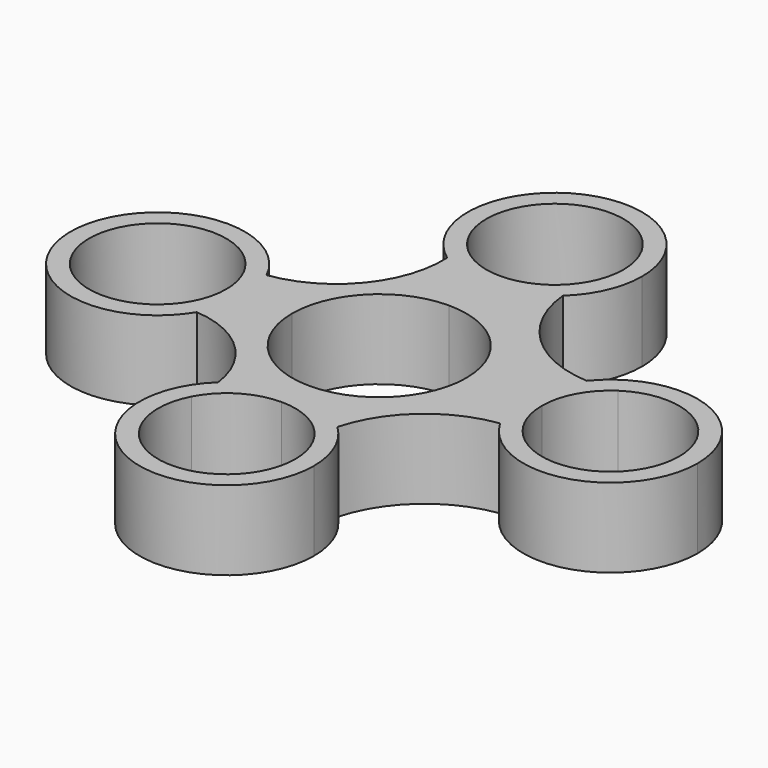
from build123d import *

# Parameters (mm, degrees)
F1_DEPTH = 12.7


with BuildPart() as f1:
    # F0 (on Top) → F1 (new body)
    with BuildSketch(Plane.XY):
        with BuildLine():
            ThreePointArc((-26.2838029012, 5.9890534429), (-24.6151248103, 5.9761621536), (-22.9531423273, 6.1260520558))
            ThreePointArc((-22.9531423273, 6.1260520558), (-49.4660776258, 0.5846286719), (-23.509406267, -7.1545136085))
            ThreePointArc((-23.509406267, -7.1545136085), (-25.4282077221, -7.135411063), (-27.3341276607, -7.3581959791))
            ThreePointArc((-27.3341276607, -7.3581959791), (-46.4726203609, 0.8628055089), (-26.2838029012, 5.9890534429))
        make_face()
        with BuildLine():
            Line((-24.5101160102, 0), (-21.5383160102, 0))
            ThreePointArc((-21.5383160102, 0), (-21.8966174323, 3.1436542152), (-22.9531423273, 6.1260520558))
            ThreePointArc((-22.9531423273, 6.1260520558), (-24.6151248103, 5.9761621536), (-26.2838029012, 5.9890534429))
            ThreePointArc((-26.2838029012, 5.9890534429), (-24.9628562451, 3.1230884685), (-24.5101160102, 0))
        make_face()
        with BuildLine():
            ThreePointArc((-23.509406267, -7.1545136085), (-22.0401002948, -3.7105343879), (-21.5383160102, 0))
            Line((-21.5383160102, 0), (-24.5101160102, 0))
            ThreePointArc((-24.5101160102, 0), (-25.2403619408, -3.9407515105), (-27.3341276607, -7.3581959791))
            ThreePointArc((-27.3341276607, -7.3581959791), (-25.4282077221, -7.135411063), (-23.509406267, -7.1545136085))
        make_face()
        with BuildLine():
            ThreePointArc((-13.97, 0), (-9.8782817332, 9.8782817332), (0, 13.97))
            Line((0, 13.97), (0, 21.2281967688))
            ThreePointArc((0, 21.2281967688), (-4.3381640986, 21.9188431605), (-8.2473894167, 23.922494227))
            ThreePointArc((-8.2473894167, 23.922494227), (-12.1416726615, 12.1663301502), (-22.9531423273, 6.1260520558))
            ThreePointArc((-22.9531423273, 6.1260520558), (-21.8966174323, 3.1436542152), (-21.5383160102, 0))
            Line((-21.5383160102, 0), (-13.97, 0))
        make_face()
        with BuildLine():
            Line((0, -16.5764547127), (0, -13.97))
            ThreePointArc((0, -13.97), (-9.8782817332, -9.8782817332), (-13.97, 0))
            Line((-13.97, 0), (-21.5383160102, 0))
            ThreePointArc((-21.5383160102, 0), (-22.0401002948, -3.7105343879), (-23.509406267, -7.1545136085))
            ThreePointArc((-23.509406267, -7.1545136085), (-14.1800112892, -11.2658599468), (-9.5466303459, -20.3473003831))
            ThreePointArc((-9.5466303459, -20.3473003831), (-5.1321883254, -17.5533202567), (0, -16.5764547127))
        make_face()
        with BuildLine():
            ThreePointArc((13.97, -30.5464547127), (12.8498346481, -25.0653371701), (9.6689764472, -20.4632114615))
            ThreePointArc((9.6689764472, -20.4632114615), (9.263305422, -22.3725482488), (9.0618977051, -24.3140865254))
            ThreePointArc((9.0618977051, -24.3140865254), (10.5029749733, -27.2833396443), (10.9982, -30.5464547127))
            ThreePointArc((10.9982, -30.5464547127), (-2.625018329, -41.2267956255), (-9.7451365483, -25.4481494163))
            ThreePointArc((-9.7451365483, -25.4481494163), (-9.4302368554, -22.9061170685), (-9.5466303459, -20.3473003831))
            ThreePointArc((-9.5466303459, -20.3473003831), (-5.5585283155, -43.3629933627), (13.97, -30.5464547127))
        make_face()
        with BuildLine():
            ThreePointArc((9.6689764472, -20.4632114615), (5.2104698339, -17.5845141131), (0, -16.5764547127))
            Line((0, -16.5764547127), (0, -19.5482547127))
            ThreePointArc((0, -19.5482547127), (5.1193540335, -20.8123590938), (9.0618977051, -24.3140865254))
            ThreePointArc((9.0618977051, -24.3140865254), (9.263305422, -22.3725482488), (9.6689764472, -20.4632114615))
        make_face()
        with BuildLine():
            Line((0, -19.5482547127), (0, -16.5764547127))
            ThreePointArc((0, -16.5764547127), (-5.1321883254, -17.5533202567), (-9.5466303459, -20.3473003831))
            ThreePointArc((-9.5466303459, -20.3473003831), (-9.4302368554, -22.9061170685), (-9.7451365483, -25.4481494163))
            ThreePointArc((-9.7451365483, -25.4481494163), (-5.6959732236, -21.1381449668), (0, -19.5482547127))
        make_face()
        with BuildLine():
            Line((23.0888973165, 0), (13.97, 0))
            ThreePointArc((13.97, 0), (9.8782817332, -9.8782817332), (0, -13.97))
            Line((0, -13.97), (0, -16.5764547127))
            ThreePointArc((0, -16.5764547127), (5.2104698339, -17.5845141131), (9.6689764472, -20.4632114615))
            ThreePointArc((9.6689764472, -20.4632114615), (15.2821696202, -11.4178910111), (24.9617009206, -6.9870408157))
            ThreePointArc((24.9617009206, -6.9870408157), (23.5652185436, -3.6168402197), (23.0888973165, 0))
        make_face()
        with BuildLine():
            ThreePointArc((51.0288973165, 0), (41.7222021913, 13.1686934676), (26.2021990138, 8.7916438716))
            ThreePointArc((26.2021990138, 8.7916438716), (28.5955998519, 8.8133611699), (30.9645498306, 9.1552898349))
            ThreePointArc((30.9645498306, 9.1552898349), (42.2518517126, 9.6950310922), (48.0570973165, 0))
            ThreePointArc((48.0570973165, 0), (40.6825557587, -10.3840985518), (28.4485245075, -6.8426517763))
            ThreePointArc((28.4485245075, -6.8426517763), (26.701686584, -6.8321093301), (24.9617009206, -6.9870408157))
            ThreePointArc((24.9617009206, -6.9870408157), (40.6757375362, -13.4936787729), (51.0288973165, 0))
        make_face()
        with BuildLine():
            ThreePointArc((26.2021990138, 8.7916438716), (23.8902038488, 4.6633048748), (23.0888973165, 0))
            Line((23.0888973165, 0), (26.0606973165, 0))
            ThreePointArc((26.0606973165, 0), (27.3638662242, 5.1929543961), (30.9645498306, 9.1552898349))
            ThreePointArc((30.9645498306, 9.1552898349), (28.5955998519, 8.8133611699), (26.2021990138, 8.7916438716))
        make_face()
        with BuildLine():
            Line((26.0606973165, 0), (23.0888973165, 0))
            ThreePointArc((23.0888973165, 0), (23.5652185436, -3.6168402197), (24.9617009206, -6.9870408157))
            ThreePointArc((24.9617009206, -6.9870408157), (26.701686584, -6.8321093301), (28.4485245075, -6.8426517763))
            ThreePointArc((28.4485245075, -6.8426517763), (26.6747987646, -3.6236584423), (26.0606973165, 0))
        make_face()
        with BuildLine():
            ThreePointArc((0, 13.97), (9.8782817332, 9.8782817332), (13.97, 0))
            Line((13.97, 0), (23.0888973165, 0))
            ThreePointArc((23.0888973165, 0), (23.8902038488, 4.6633048748), (26.2021990138, 8.7916438716))
            ThreePointArc((26.2021990138, 8.7916438716), (14.8492633775, 13.7645914435), (9.476547394, 24.9338921412))
            ThreePointArc((9.476547394, 24.9338921412), (5.0876597937, 22.1875619716), (0, 21.2281967688))
            Line((0, 21.2281967688), (0, 13.97))
        make_face()
        with BuildLine():
            ThreePointArc((13.97, 35.1981967688), (-6.3223757342, 47.655663007), (-8.2473894167, 23.922494227))
            ThreePointArc((-8.2473894167, 23.922494227), (-8.7065761615, 27.0814291625), (-9.7451365483, 30.0998914723))
            ThreePointArc((-9.7451365483, 30.0998914723), (-2.625018329, 45.8785376815), (10.9982, 35.1981967688))
            ThreePointArc((10.9982, 35.1981967688), (10.6803409127, 32.5731784398), (9.7451365483, 30.0998914723))
            ThreePointArc((9.7451365483, 30.0998914723), (9.4225906062, 27.5266793177), (9.476547394, 24.9338921412))
            ThreePointArc((9.476547394, 24.9338921412), (12.7974268331, 29.5958074167), (13.97, 35.1981967688))
        make_face()
        with BuildLine():
            Line((0, 24.1999967688), (0, 21.2281967688))
            ThreePointArc((0, 21.2281967688), (5.0876597937, 22.1875619716), (9.476547394, 24.9338921412))
            ThreePointArc((9.476547394, 24.9338921412), (9.4225906062, 27.5266793177), (9.7451365483, 30.0998914723))
            ThreePointArc((9.7451365483, 30.0998914723), (5.6959732236, 25.7898870228), (0, 24.1999967688))
        make_face()
        with BuildLine():
            ThreePointArc((-8.2473894167, 23.922494227), (-4.3381640986, 21.9188431605), (0, 21.2281967688))
            Line((0, 21.2281967688), (0, 24.1999967688))
            ThreePointArc((0, 24.1999967688), (-5.6959732236, 25.7898870228), (-9.7451365483, 30.0998914723))
            ThreePointArc((-9.7451365483, 30.0998914723), (-8.7065761615, 27.0814291625), (-8.2473894167, 23.922494227))
        make_face()
    extrude(amount=F1_DEPTH)


solid = f1.part
